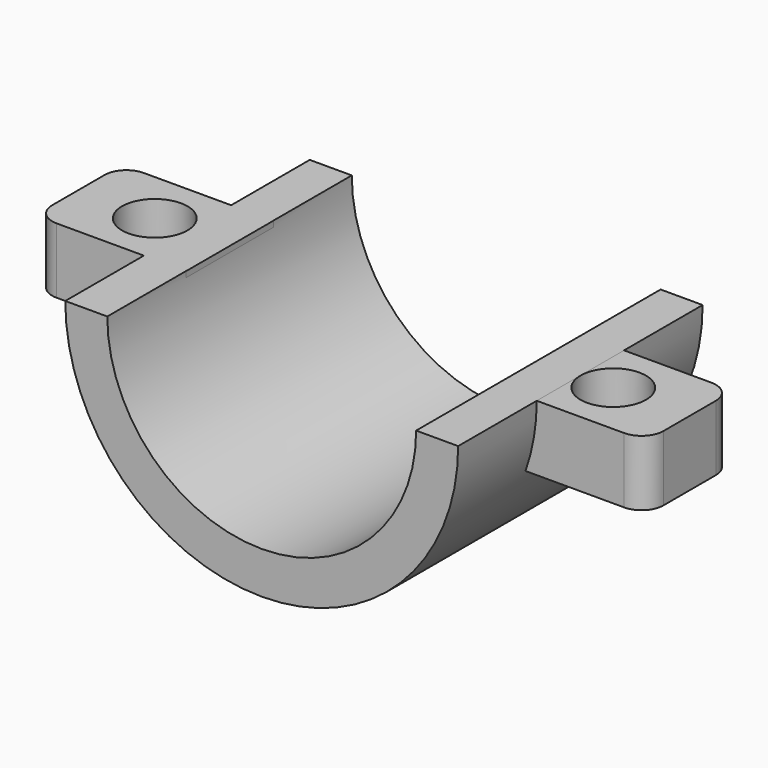
from build123d import *

# Parameters (mm, degrees)
PAD037_DEPTH        = 13
PAD037_DEPTH_BACK   = 1
SKETCH058_W         = 1.93
SKETCH058_H         = 5
PAD038_DEPTH        = 3
SKETCH059_W         = 5
SKETCH059_H         = 3
PAD039_DEPTH        = 5
SKETCH060_W         = 5
SKETCH060_H         = 3
PAD040_DEPTH        = 5
HOLE005_D           = 3
HOLE005_DEPTH       = 3
HOLE005_CBORE_D     = 3.5
HOLE005_CBORE_DEPTH = 1
HOLE005_TIPS_R      = 1.5
FILLET010_R         = 1
FILLET011_R         = 1
FILLET012_R         = 1


with BuildPart() as part:
    # Sketch057 (on Face1 of CopyPad023) → Pad037 (new body, two sides)
    with BuildSketch(Plane(origin=(0, -35.363644, -2), x_dir=(1, 0, 0), z_dir=(0, -1, 0))) as pad037_sk:
        with BuildLine():
            ThreePointArc((-25.035308, -10.895555), (-17.960308, -17.970555), (-10.885308, -10.895554))
            Line((-10.885308, -10.895554), (-8.960308, -10.895554))
            ThreePointArc((-26.960308, -10.895555), (-17.960308, -19.895555), (-8.960308, -10.895554))
            Line((-26.960308, -10.895555), (-25.035308, -10.895555))
        make_face()
    extrude(amount=-PAD037_DEPTH)
    extrude(pad037_sk.sketch, amount=PAD037_DEPTH_BACK)

    # Sketch058 (on Face1 of Pad037) → Pad038 (join)
    with BuildSketch(Plane.XY.offset(-12.895555)):
        with Locations((-25.995308, -29.363644)):
            Rectangle(SKETCH058_W, SKETCH058_H)
        with Locations((-9.920308, -29.363644)):
            Rectangle(SKETCH058_W, SKETCH058_H)
    extrude(amount=-PAD038_DEPTH)

    # Sketch059 (on Face12 of Pad038) → Pad039 (join)
    with BuildSketch(Plane(origin=(-26.960308, 0, -2), x_dir=(0, -1, 0), z_dir=(-1, 0, 0))):
        with Locations((29.363644, -12.395555)):
            Rectangle(SKETCH059_W, SKETCH059_H)
    extrude(amount=PAD039_DEPTH)

    # Sketch060 (on Face13 of Pad039) → Pad040 (join)
    with BuildSketch(Plane(origin=(-8.955308, 0, -2), x_dir=(0, 1, 0), z_dir=(1, 0, 0))):
        with Locations((-29.363644, -12.395555)):
            Rectangle(SKETCH060_W, SKETCH060_H)
    extrude(amount=PAD040_DEPTH)

    # Hole005
    with Locations(Plane(origin=(0, 0, -15.895555), x_dir=(1, 0, 0), z_dir=(0, 0, -1))):
        with Locations((-7.455308, 29.363644), (-28.460308, 29.363644)):
            CounterBoreHole(HOLE005_D / 2, HOLE005_CBORE_D / 2, HOLE005_CBORE_DEPTH, depth=HOLE005_DEPTH)

    # Hole005 tips → Hole005 tip 1 section 0
    with BuildSketch(Plane(origin=(0, 0, -12.895555), x_dir=(1, 0, 0), z_dir=(0, 0, -1)), mode=Mode.PRIVATE) as hole005_tip_1_s0:
        with Locations((-7.455308, 29.363644)):
            Circle(HOLE005_TIPS_R)
    loft([hole005_tip_1_s0.sketch, Vertex(-7.455308, -29.363644, -11.994264)], mode=Mode.SUBTRACT)

    # Hole005 tips → Hole005 tip 2 section 0
    with BuildSketch(Plane(origin=(0, 0, -12.895555), x_dir=(1, 0, 0), z_dir=(0, 0, -1)), mode=Mode.PRIVATE) as hole005_tip_2_s0:
        with Locations((-28.460308, 29.363644)):
            Circle(HOLE005_TIPS_R)
    loft([hole005_tip_2_s0.sketch, Vertex(-28.460308, -29.363644, -11.994264)], mode=Mode.SUBTRACT)

    # Fillet010
    fillet010_edges = [part.edges().sort_by_distance(p)[0] for p in [
        (-31.960308, -31.863644, -14.395555),
    ]]
    fillet(fillet010_edges, radius=FILLET010_R)

    # Fillet011
    fillet011_edges = [part.edges().sort_by_distance(p)[0] for p in [
        (-31.960308, -26.863644, -14.395555),
    ]]
    fillet(fillet011_edges, radius=FILLET011_R)

    # Fillet012
    fillet012_edges = [part.edges().sort_by_distance(p)[0] for p in [
        (-3.955308, -26.863644, -14.395555),
        (-3.955308, -31.863644, -14.395555),
    ]]
    fillet(fillet012_edges, radius=FILLET012_R)


with BuildPart() as part_1:
    # Body007 placement: moved
    add(part.part.moved(Location((0.45, 32.66415, 1.7))))


solid = part_1.part
